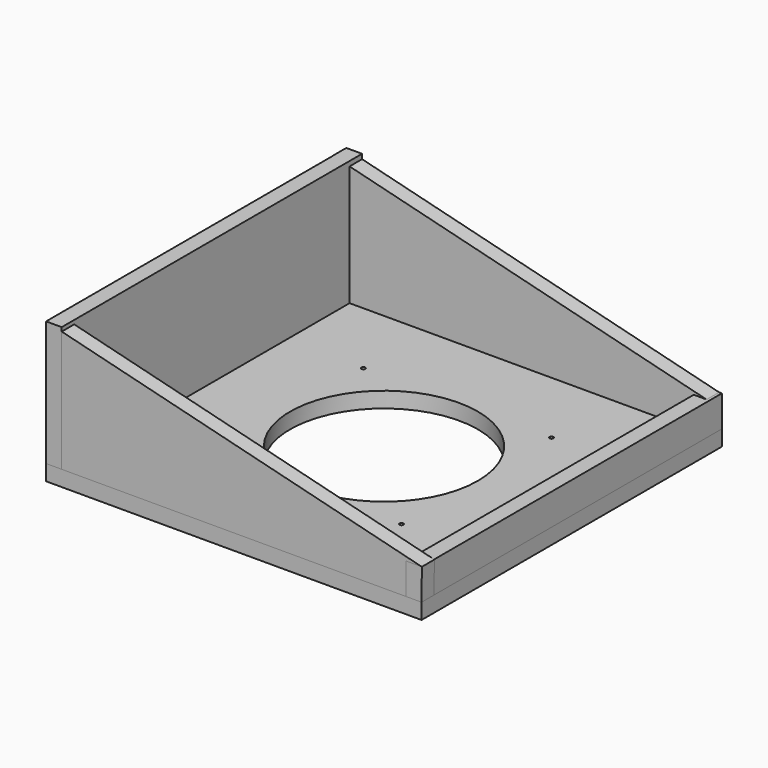
from build123d import *

# Parameters (mm, degrees)
F0_W      = 304.8
F0_H      = 304.8
F0_R      = 76.2
F1_DEPTH  = 12.7
F6_DEPTH  = 12.7
F7_DEPTH  = 12.7
F4_W      = 304.8
F4_H      = 25.4
F9_DEPTH  = 12.7
F8_W      = 304.8
F8_H      = 101.6
F10_DEPTH = 12.7
F12_D     = 3.175


with BuildPart() as f1:
    # F0 (on Top) → F1 (new body)
    with BuildSketch(Plane.XY):
        Rectangle(F0_W, F0_H)
        Circle(F0_R, mode=Mode.SUBTRACT)
    extrude(amount=F1_DEPTH)

    # F12 (through all)
    with Locations(Plane(origin=(0, 0, 0), x_dir=(1, 0, 0), z_dir=(0, 0, -1))):
        with Locations((-76.551482, 77.127993), (75.508684, 76.579042), (75.508684, -75.481132), (-77.100433, -75.481132)):
            Hole(F12_D / 2)


with BuildPart() as f6:
    # F2 (on face) → F6 (new body)
    with BuildSketch(Plane.XZ.offset(152.4)):
        Polygon((-152.4, 114.3), (-152.4, 12.7), (152.4, 12.7), (152.646845, 38.098801), align=None)
    extrude(amount=-F6_DEPTH)


with BuildPart() as f7:
    # F5 (on face) → F7 (new body)
    with BuildSketch(Plane(origin=(0, 152.4, 0), x_dir=(-1, 0, 0), z_dir=(0, 1, 0))):
        Polygon((-152.4, 37.522878), (-152.4, 12.7), (152.4, 12.7), (153.140679, 113.810666), align=None)
    extrude(amount=-F7_DEPTH)


with BuildPart() as f9:
    # F4 (on face) → F9 (new body)
    with BuildSketch(Plane.YZ.offset(152.4)):
        with Locations((0, 25.4)):
            Rectangle(F4_W, F4_H)
    extrude(amount=-F9_DEPTH)


with BuildPart() as f10:
    # F8 (on face) → F10 (new body)
    with BuildSketch(Plane(origin=(-152.4, 0, 0), x_dir=(0, -1, 0), z_dir=(-1, 0, 0))):
        with Locations((0, 63.5)):
            Rectangle(F8_W, F8_H)
    extrude(amount=-F10_DEPTH)


solid = Compound([f1.part, f6.part, f7.part, f9.part, f10.part])
